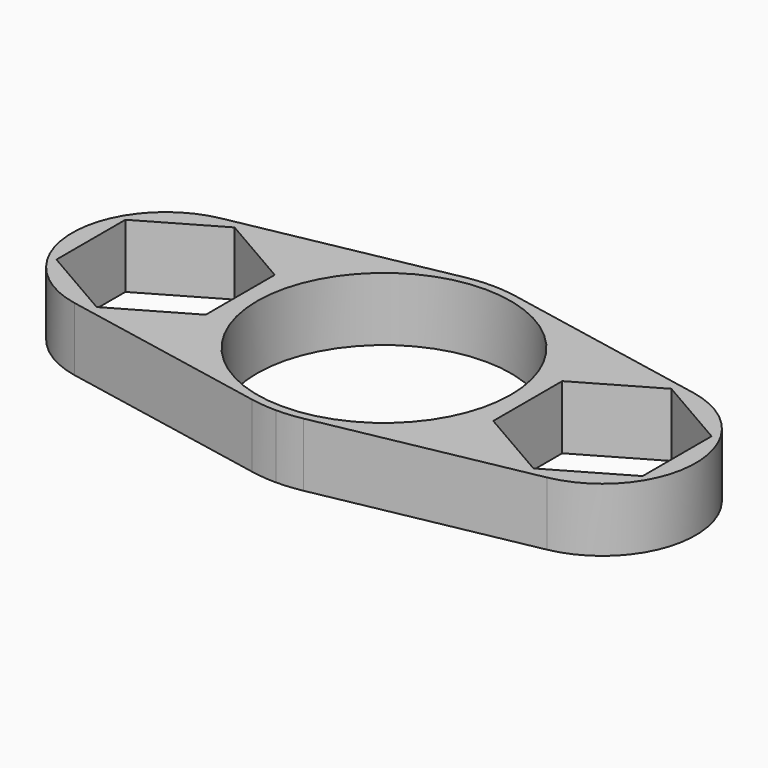
from build123d import *

# Parameters (mm, degrees)
F1_DEPTH = 4


with BuildPart() as f1:
    # F0 (on Top) → F1 (new body, symmetric)
    with BuildSketch(Plane.XY):
        with BuildLine():
            Line((-3.245455, 16.687331), (-29.743182, 11.533891))
            ThreePointArc((-29.743182, 11.533891), (-39.25, 0), (-29.743182, -11.533891))
            Line((-29.743182, -11.533891), (-3.245455, -16.687331))
            ThreePointArc((-3.245455, -16.687331), (-1.630241, -16.921652), (0, -17))
            ThreePointArc((0, -17), (1.630241, -16.921652), (3.245455, -16.687331))
            Line((3.245455, -16.687331), (29.743182, -11.533891))
            ThreePointArc((29.743182, -11.533891), (39.25, 0), (29.743182, 11.533891))
            Line((29.743182, 11.533891), (3.245455, 16.687331))
            ThreePointArc((3.245455, 16.687331), (1.630241, 16.921652), (0, 17))
            ThreePointArc((0, 17), (-1.630241, 16.921652), (-3.245455, 16.687331))
        make_face()
        Polygon((-27.5, -10.854185), (-36.9, -5.427093), (-36.9, 5.427093), (-27.5, 10.854185), (-18.1, 5.427093), (-18.1, -5.427093), align=None, mode=Mode.SUBTRACT)
        with BuildLine():
            ThreePointArc((0, -15.975), (-15.975, 0), (0, 15.975))
            ThreePointArc((0, 15.975), (15.975, 0), (0, -15.975))
        make_face(mode=Mode.SUBTRACT)
        Polygon((27.5, 10.854185), (36.9, 5.427093), (36.9, -5.427093), (27.5, -10.854185), (18.1, -5.427093), (18.1, 5.427093), align=None, mode=Mode.SUBTRACT)
    extrude(amount=F1_DEPTH, both=True)


solid = f1.part
